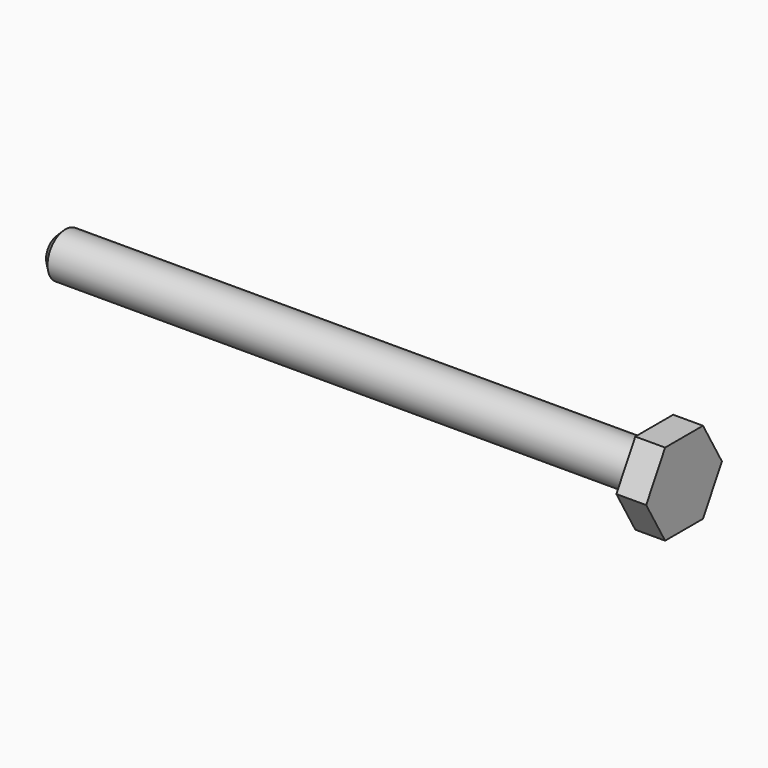
from build123d import *

# Parameters (mm, degrees)
F1_DEPTH = 2
F2_R     = 1.5
F3_DEPTH = 40
F4_SIZE  = 0.5


with BuildPart() as f1:
    # F0 (on Right) → F1 (new body)
    with BuildSketch(Plane.YZ):
        Polygon((1.587713, 2.75), (-1.587713, 2.75), (-3.175426, 0), (-1.587713, -2.75), (1.587713, -2.75), (3.175426, 0), align=None)
    extrude(amount=F1_DEPTH)

    # F2 (on Right) → F3 (join)
    with BuildSketch(Plane.YZ):
        Circle(F2_R)
    extrude(amount=-F3_DEPTH)

    # F4
    f4_edges = [f1.edges().sort_by_distance(p)[0] for p in [
        (-40, -1.5, 0),
    ]]
    chamfer(f4_edges, length=F4_SIZE)


solid = f1.part
